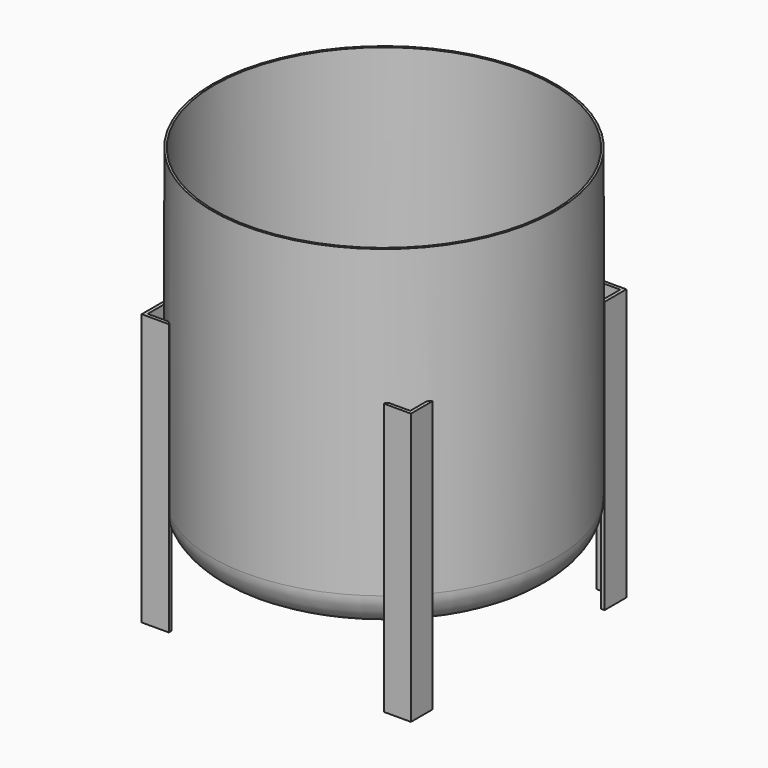
from build123d import *

# Parameters (mm, degrees)
F0_R          = 253
F1_DEPTH      = 500
F2_R          = 50
F3_T          = -3
F5_DEPTH      = 300
F5_DEPTH_BACK = 100


with BuildPart() as f1:
    # F0 (on Top) → F1 (new body)
    with BuildSketch(Plane.XY):
        Circle(F0_R)
    extrude(amount=F1_DEPTH)

    # F2
    f2_edges = [f1.edges().sort_by_distance(p)[0] for p in [
        (-253, 0, 0),
    ]]
    fillet(f2_edges, radius=F2_R)

    # F3
    f3_openings = [f1.faces().sort_by_distance(p)[0] for p in [
        (0, 0, 500),
    ]]
    offset(amount=F3_T, openings=f3_openings)

    # F4 (on Top) → F5 (join, two sides)
    with BuildSketch(Plane.XY) as f5_sk:
        Polygon((-158.408357, 193.408357), (-158.408357, 198.408357), (-198.408357, 198.408357), (-198.408357, 158.408357), (-193.408357, 158.408357), (-193.408357, 193.408357), align=None)
        Polygon((158.408357, 198.408357), (158.408357, 193.408357), (193.408357, 193.408357), (193.408357, 158.408357), (198.408357, 158.408357), (198.408357, 198.408357), align=None)
        Polygon((198.408357, -198.408357), (198.408357, -158.408357), (193.408357, -158.408357), (193.408357, -193.408357), (158.408357, -193.408357), (158.408357, -198.408357), align=None)
        Polygon((-193.408357, -158.408357), (-198.408357, -158.408357), (-198.408357, -198.408357), (-158.408357, -198.408357), (-158.408357, -193.408357), (-193.408357, -193.408357), align=None)
    extrude(amount=F5_DEPTH)
    extrude(f5_sk.sketch, amount=-F5_DEPTH_BACK)


solid = f1.part
